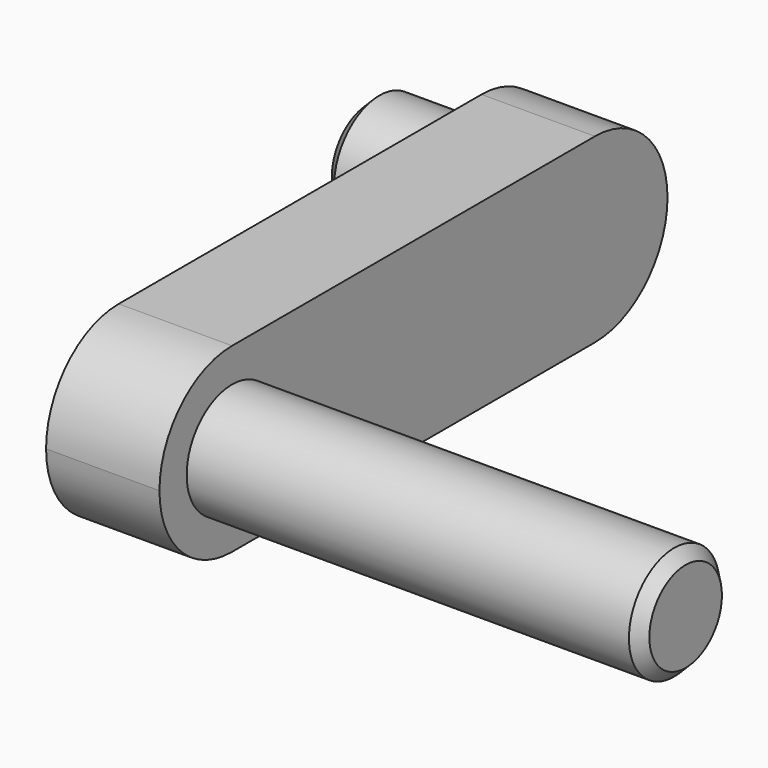
from build123d import *

# Parameters (mm, degrees)
F0_R          = 2.5
F1_DEPTH      = 25
F2_DEPTH      = 5
F3_DEPTH      = 5
F3_DEPTH_BACK = 5
F4_SIZE       = 0.5


with BuildPart() as f1:
    # F0 (on Right) → F1 (new body)
    with BuildSketch(Plane.YZ):
        with Locations((4, 0)):
            Circle(F0_R)
    extrude(amount=F1_DEPTH)

    # F0 (on Right) → F2 (join)
    with BuildSketch(Plane.YZ):
        with BuildLine():
            ThreePointArc((0, 0), (1.1715728753, -2.8284271247), (4, -4))
            Line((4, -4), (24, -4))
            ThreePointArc((24, -4), (26.8284271247, -2.8284271247), (28, 0))
            ThreePointArc((28, 0), (26.8284271247, 2.8284271247), (24, 4))
            Line((24, 4), (4, 4))
            ThreePointArc((4, 4), (1.1715728753, 2.8284271247), (0, 0))
        make_face()
        with Locations((4, 0)):
            Circle(F0_R, mode=Mode.SUBTRACT)
        with Locations((24, 0)):
            Circle(F0_R, mode=Mode.SUBTRACT)
    extrude(amount=F2_DEPTH)

    # F0 (on Right) → F3 (join, two sides)
    with BuildSketch(Plane.YZ) as f3_sk:
        with Locations((24, 0)):
            Circle(F0_R)
    extrude(amount=-F3_DEPTH)
    extrude(f3_sk.sketch, amount=F3_DEPTH_BACK)

    # F4
    f4_edges = [f1.edges().sort_by_distance(p)[0] for p in [
        (-5, 21.5, 0),
        (25, 1.5, 0),
    ]]
    chamfer(f4_edges, length=F4_SIZE)


solid = f1.part
